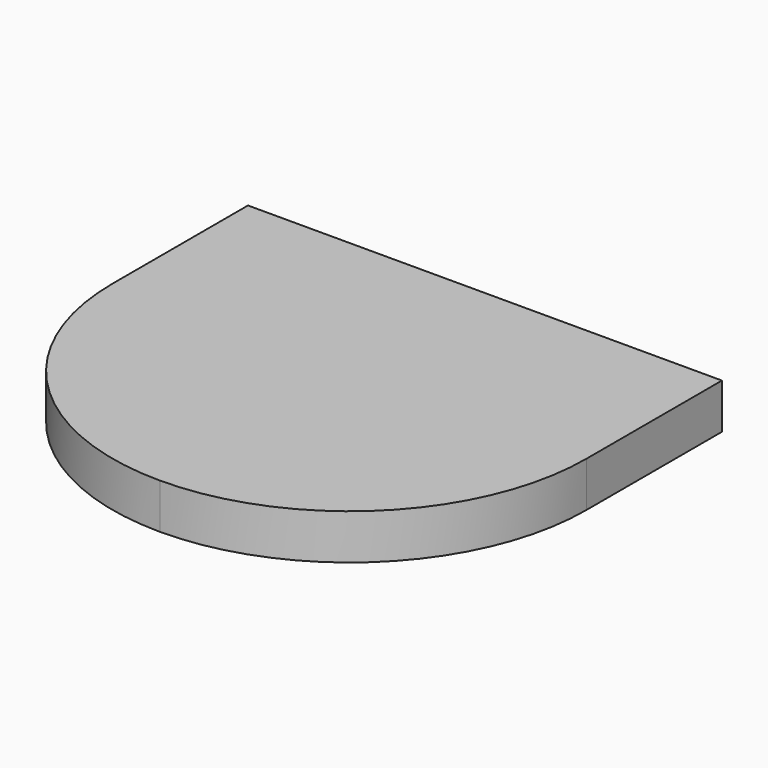
from build123d import *

# Parameters (mm, degrees)
F1_DEPTH = 25.4


with BuildPart() as f1:
    # F0 (on Top) → F1 (new body, symmetric)
    with BuildSketch(Plane.XY):
        with BuildLine():
            Line((266.7, 38.1), (266.7, 228.6))
            Line((266.7, 228.6), (-266.7, 228.6))
            Line((-266.7, 228.6), (-266.7, 38.1))
            ThreePointArc((-266.7, 38.1), (-188.585379, -150.485378), (0, -228.6))
            ThreePointArc((0, -228.6), (188.585378, -150.485379), (266.7, 38.1))
        make_face()
    extrude(amount=F1_DEPTH, both=True)


solid = f1.part
